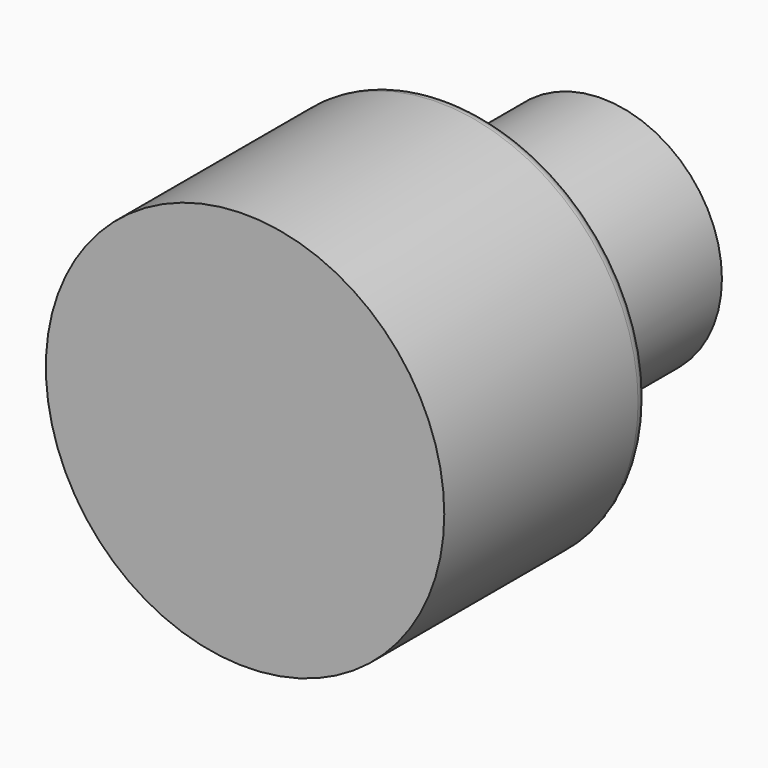
from build123d import *

# Parameters (mm, degrees)
F0_R     = 2.3876
F1_DEPTH = 3.81
F2_R     = 3.96875
F3_DEPTH = 5.08
F4_R     = 1.59385
F5_DEPTH = 2.921
F6_R     = 0.254


with BuildPart() as f1:
    # F0 (on Front) → F1 (new body)
    with BuildSketch(Plane.XZ):
        Circle(F0_R)
    extrude(amount=F1_DEPTH)

    # F2 (on face) → F3 (join)
    with BuildSketch(Plane.XZ.offset(3.81)):
        Circle(F2_R)
    extrude(amount=F3_DEPTH)

    # F4 (on face) → F5 (cut)
    with BuildSketch(Plane(origin=(0, 0, 0), x_dir=(-1, 0, 0), z_dir=(0, 1, 0))):
        Circle(F4_R)
    extrude(amount=-F5_DEPTH, mode=Mode.SUBTRACT)

    # F6
    f6_edges = [f1.edges().sort_by_distance(p)[0] for p in [
        (-3.96875, -3.81, 0),
    ]]
    fillet(f6_edges, radius=F6_R)


solid = f1.part
